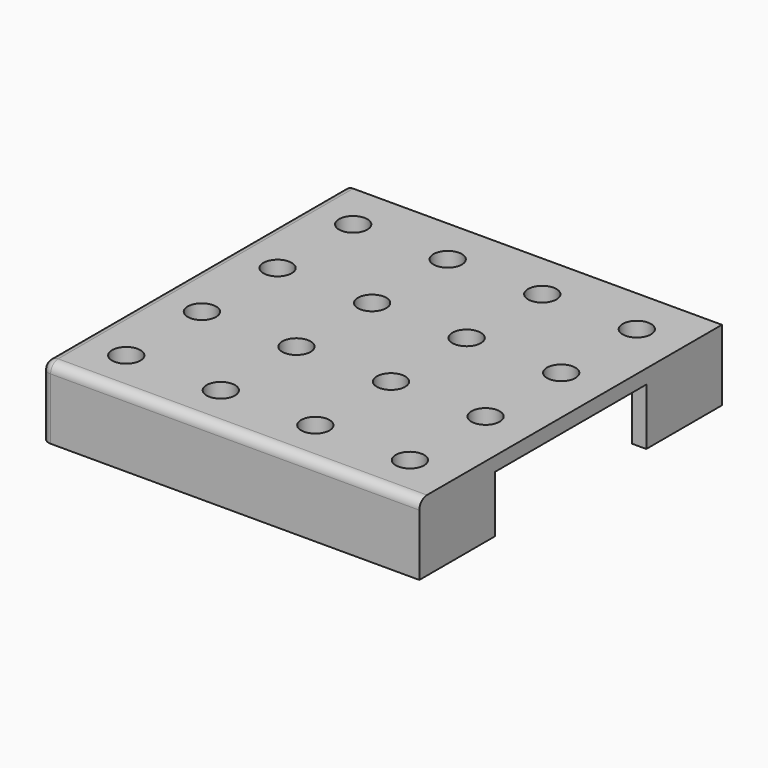
from build123d import *

# Parameters (mm, degrees)
SKETCH_W        = 80
SKETCH_H        = 80
PAD_DEPTH       = 15
POCKET_DEPTH    = 12
SKETCH006_R     = 5
PAD001_DEPTH    = 3
SKETCH004_R     = 1.7
POCKET001_DEPTH = 10
SKETCH009_R     = 3
POCKET002_DEPTH = 3.5
FILLET_R        = 2
FILLET001_R     = 1.5


with BuildPart() as part:
    # Sketch → Pad (new body)
    with BuildSketch(Plane.XY):
        with Locations((40, 40)):
            Rectangle(SKETCH_W, SKETCH_H)
    extrude(amount=PAD_DEPTH)

    # Sketch003 (on Face5 of Pad) → Pocket (cut)
    with BuildSketch(Plane(origin=(0, 0, 0), x_dir=(1, 0, 0), z_dir=(0, 0, -1))):
        Polygon((3, -3), (77, -3), (77, -20), (80, -20), (80, -60), (77, -60), (77, -77), (60, -77), (60, -80), (20, -80), (20, -77), (3, -77), align=None)
    extrude(amount=-POCKET_DEPTH, mode=Mode.SUBTRACT)

    # Sketch006 (on Face4 of Pocket) → Pad001 (join)
    with BuildSketch(Plane(origin=(0, 0, 12), x_dir=(1, 0, 0), z_dir=(0, 0, -1))):
        with Locations((10, -10)):
            Circle(SKETCH006_R)
        with Locations((30, -10)):
            Circle(SKETCH006_R)
        with Locations((50, -10)):
            Circle(SKETCH006_R)
        with Locations((70, -10)):
            Circle(SKETCH006_R)
        with Locations((10, -30)):
            Circle(SKETCH006_R)
        with Locations((30, -30)):
            Circle(SKETCH006_R)
        with Locations((50, -30)):
            Circle(SKETCH006_R)
        with Locations((70, -30)):
            Circle(SKETCH006_R)
        with Locations((10, -50)):
            Circle(SKETCH006_R)
        with Locations((30, -50)):
            Circle(SKETCH006_R)
        with Locations((50, -50)):
            Circle(SKETCH006_R)
        with Locations((70, -50)):
            Circle(SKETCH006_R)
        with Locations((10, -70)):
            Circle(SKETCH006_R)
        with Locations((30, -70)):
            Circle(SKETCH006_R)
        with Locations((50, -70)):
            Circle(SKETCH006_R)
        with Locations((70, -70)):
            Circle(SKETCH006_R)
    extrude(amount=PAD001_DEPTH)

    # Sketch004 (on Face8 of Pad001) → Pocket001 (cut)
    with BuildSketch(Plane.XY.offset(15)):
        with Locations((10, 10)):
            Circle(SKETCH004_R)
        with Locations((10, 30)):
            Circle(SKETCH004_R)
        with Locations((10, 50)):
            Circle(SKETCH004_R)
        with Locations((10, 70)):
            Circle(SKETCH004_R)
        with Locations((30, 10)):
            Circle(SKETCH004_R)
        with Locations((30, 30)):
            Circle(SKETCH004_R)
        with Locations((30, 50)):
            Circle(SKETCH004_R)
        with Locations((30, 70)):
            Circle(SKETCH004_R)
        with Locations((50, 10)):
            Circle(SKETCH004_R)
        with Locations((50, 30)):
            Circle(SKETCH004_R)
        with Locations((50, 50)):
            Circle(SKETCH004_R)
        with Locations((50, 70)):
            Circle(SKETCH004_R)
        with Locations((70, 10)):
            Circle(SKETCH004_R)
        with Locations((70, 30)):
            Circle(SKETCH004_R)
        with Locations((70, 50)):
            Circle(SKETCH004_R)
        with Locations((70, 70)):
            Circle(SKETCH004_R)
    extrude(amount=-POCKET001_DEPTH, mode=Mode.SUBTRACT)

    # Sketch009 (on Face8 of Pocket001) → Pocket002 (cut)
    with BuildSketch(Plane.XY.offset(15)):
        with Locations((10, 10)):
            Circle(SKETCH009_R)
        with Locations((10, 30)):
            Circle(SKETCH009_R)
        with Locations((10, 50)):
            Circle(SKETCH009_R)
        with Locations((10, 70)):
            Circle(SKETCH009_R)
        with Locations((30, 10)):
            Circle(SKETCH009_R)
        with Locations((30, 30)):
            Circle(SKETCH009_R)
        with Locations((30, 50)):
            Circle(SKETCH009_R)
        with Locations((30, 70)):
            Circle(SKETCH009_R)
        with Locations((50, 10)):
            Circle(SKETCH009_R)
        with Locations((50, 30)):
            Circle(SKETCH009_R)
        with Locations((50, 50)):
            Circle(SKETCH009_R)
        with Locations((50, 70)):
            Circle(SKETCH009_R)
        with Locations((70, 10)):
            Circle(SKETCH009_R)
        with Locations((70, 30)):
            Circle(SKETCH009_R)
        with Locations((70, 50)):
            Circle(SKETCH009_R)
        with Locations((70, 70)):
            Circle(SKETCH009_R)
    extrude(amount=-POCKET002_DEPTH, mode=Mode.SUBTRACT)

    # Fillet
    fillet_edges = [part.edges().sort_by_distance(p)[0] for p in [
        (40, 0, 15),
        (0, 0, 7.5),
        (0, 40, 15),
    ]]
    fillet(fillet_edges, radius=FILLET_R)

    # Fillet001
    fillet001_edges = [part.edges().sort_by_distance(p)[0] for p in [
        (68.5, 77, 12),
        (77, 68.5, 12),
        (77, 11.5, 12),
        (40, 3, 12),
        (3, 40, 12),
        (11.5, 77, 12),
    ]]
    fillet(fillet001_edges, radius=FILLET001_R)


solid = part.part
